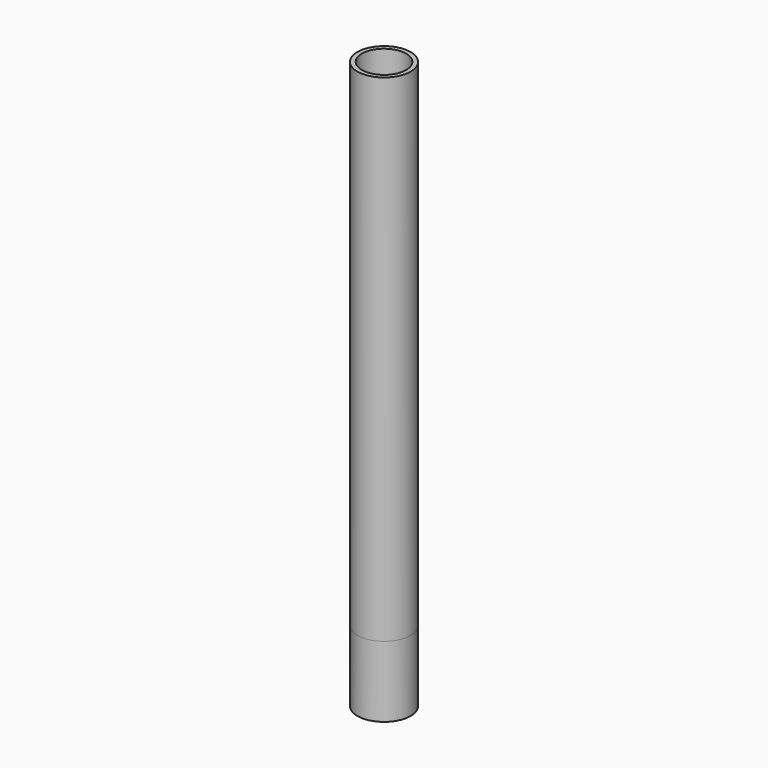
from build123d import *

# Parameters (mm, degrees)
F0_R     = 9.525
F0_R_2   = 7.9375
F1_DEPTH = 152.4
F2_DEPTH = 25.4
F3_DEPTH = 25.4


with BuildPart() as f1:
    # F0 (on Top) → F1 (new body)
    with BuildSketch(Plane.XY):
        Circle(F0_R)
        Circle(F0_R_2, mode=Mode.SUBTRACT)
    extrude(amount=F1_DEPTH)

    # F2 (add): a face of the model
    f2_faces = [f1.faces().sort_by_distance(p)[0] for p in [
        (-9.2555923164, 0, 152.4),
    ]]
    extrude(f2_faces, amount=F2_DEPTH)

    # F3 (add): a face of the model
    f3_faces = [f1.faces().sort_by_distance(p)[0] for p in [
        (-9.2555923164, 0, 0),
    ]]
    extrude(f3_faces, amount=F3_DEPTH)


solid = f1.part
